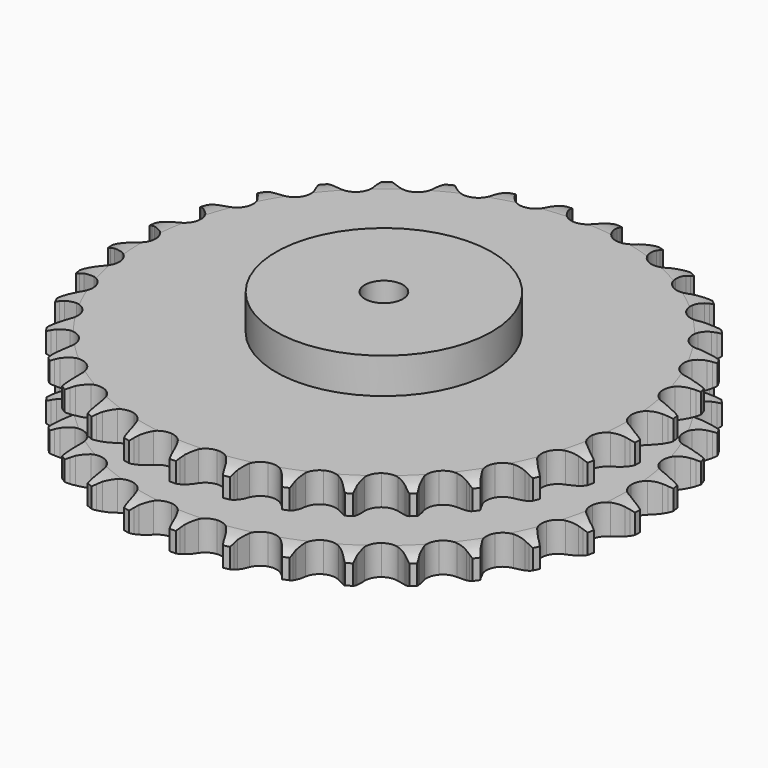
from build123d import *

# Parameters (mm, degrees)
PAD_DEPTH         = 72
SKETCH001_R       = 85
PAD001_DEPTH      = 100
SKETCH002_R       = 15
POCKET_DEPTH      = 0.001
POCKET_DEPTH_BACK = 100.001


with BuildPart() as part:
    # Sprocket → Pad (new body)
    with BuildSketch(Plane.XY):
        with BuildLine():
            ThreePointArc((-20.153782, 211.05995), (-17.745819, 207.875961), (-15.993138, 204.289294))
            Line((-15.993138, 204.289294), (-14.754015, 200.977779))
            ThreePointArc((-14.754015, 200.977779), (-12.794735, 196.696545), (-10.248209, 192.736376))
            ThreePointArc((-10.248209, 192.736376), (-5.730216, 188.960575), (0, 187.606489))
            ThreePointArc((0, 187.606489), (5.730216, 188.960575), (10.248209, 192.736376))
            ThreePointArc((10.248209, 192.736376), (12.794735, 196.696545), (14.754015, 200.977779))
            Line((14.754015, 200.977779), (15.993138, 204.289294))
            ThreePointArc((15.993138, 204.289294), (17.745819, 207.875961), (20.153782, 211.05995))
            ThreePointArc((20.153782, 211.05995), (21.915655, 207.47779), (22.957882, 203.624241))
            Line((22.957882, 203.624241), (23.547904, 200.138064))
            ThreePointArc((23.547904, 200.138064), (24.661548, 195.563402), (26.412589, 191.192865))
            ThreePointArc((26.412589, 191.192865), (30.13436, 186.630262), (35.504762, 184.216195))
            ThreePointArc((35.504762, 184.216195), (41.387688, 184.461361), (46.538609, 187.313893))
            Line((46.538609, 187.313893), (52.522686, 194.553633))
            ThreePointArc((52.522686, 194.553633), (53.404116, 196.086832), (54.366124, 197.570799))
            ThreePointArc((54.366124, 197.570799), (56.765913, 200.760953), (59.732935, 203.431694))
            ThreePointArc((59.732935, 203.431694), (60.785041, 199.580831), (61.079144, 195.599678))
            Line((61.079144, 195.599678), (60.99874, 192.064839))
            ThreePointArc((60.99874, 192.064839), (61.226499, 187.362088), (62.118766, 182.739146))
            ThreePointArc((62.118766, 182.739146), (64.909802, 177.554645), (69.726288, 174.167849))
            ThreePointArc((69.726288, 174.167849), (75.549301, 173.295232), (81.146983, 175.121397))
            Line((81.146983, 175.121397), (88.393049, 181.097812))
            ThreePointArc((88.393049, 181.097812), (89.548711, 182.436492), (90.774177, 183.71158))
            ThreePointArc((90.774177, 183.71158), (93.734339, 186.389921), (97.153184, 188.450886))
            ThreePointArc((97.153184, 188.450886), (97.457497, 184.4705), (96.992847, 180.505633))
            Line((96.992847, 180.505633), (96.244923, 177.049889))
            ThreePointArc((96.244923, 177.049889), (95.578565, 172.38902), (95.57981, 167.680757))
            ThreePointArc((95.57981, 167.680757), (97.339235, 162.06174), (101.427726, 157.824622))
            ThreePointArc((101.427726, 157.824622), (106.980365, 155.865762), (112.822494, 156.599557))
            Line((112.822494, 156.599557), (121.068658, 161.096644))
            ThreePointArc((121.068658, 161.096644), (122.456782, 162.192422), (123.901414, 163.212547))
            ThreePointArc((123.901414, 163.212547), (127.314962, 165.282272), (131.062064, 166.658972))
            ThreePointArc((131.062064, 166.658972), (130.607584, 162.692926), (129.400975, 158.887644))
            Line((129.400975, 158.887644), (128.012564, 155.635896))
            ThreePointArc((128.012564, 155.635896), (126.476172, 151.185363), (125.58635, 146.56195))
            ThreePointArc((125.58635, 146.56195), (126.250574, 140.711502), (129.463301, 135.777202))
            ThreePointArc((129.463301, 135.777202), (134.544879, 132.802898), (140.420305, 132.417802))
            Line((140.420305, 132.417802), (149.36853, 135.273023))
            ThreePointArc((149.36853, 135.273023), (150.938946, 136.086295), (152.550532, 136.814587))
            ThreePointArc((152.550532, 136.814587), (156.294091, 138.200891), (160.23402, 138.843568))
            ThreePointArc((160.23402, 138.843568), (159.037174, 135.035205), (157.132216, 131.527042))
            Line((157.132216, 131.527042), (155.153497, 128.596815))
            ThreePointArc((155.153497, 128.596815), (152.802601, 124.517474), (151.053873, 120.146011))
            ThreePointArc((151.053873, 120.146011), (150.598889, 114.275584), (152.819735, 108.82244))
            ThreePointArc((152.819735, 108.82244), (157.246592, 104.940191), (162.942961, 103.450122))
            Line((162.942961, 103.450122), (172.269834, 104.560283))
            ThreePointArc((172.269834, 104.560283), (173.965783, 105.061655), (175.686076, 105.471791))
            ThreePointArc((175.686076, 105.471791), (179.624344, 106.12457), (183.6147, 106.009997))
            ThreePointArc((183.6147, 106.009997), (181.718745, 102.49696), (179.184288, 99.41271))
            Line((179.184288, 99.41271), (176.686779, 96.909911))
            ThreePointArc((176.686779, 96.909911), (173.606346, 93.349198), (171.061915, 89.387683))
            ThreePointArc((171.061915, 89.387683), (169.504167, 83.709448), (170.652865, 77.934552))
            ThreePointArc((170.652865, 77.934552), (174.265003, 73.284671), (179.576434, 70.743486))
            Line((179.576434, 70.743486), (188.944857, 70.068462))
            ThreePointArc((188.944857, 70.068462), (190.705044, 70.239813), (192.471867, 70.31697))
            ThreePointArc((192.471867, 70.31697), (196.462505, 70.21263), (200.359067, 69.344947))
            ThreePointArc((200.359067, 69.344947), (197.832528, 66.254207), (194.760174, 63.705343))
            Line((194.760174, 63.705343), (191.83414, 61.72043))
            ThreePointArc((191.83414, 61.72043), (188.135505, 58.80704), (184.887333, 55.398651))
            ThreePointArc((184.887333, 55.398651), (182.283123, 50.117835), (182.318156, 44.229906))
            ThreePointArc((182.318156, 44.229906), (184.985022, 38.980453), (189.719547, 35.479995))
            Line((189.719547, 35.479995), (198.790921, 33.044185))
            ThreePointArc((198.790921, 33.044185), (200.551727, 32.879322), (202.301224, 32.62071))
            ThreePointArc((202.301224, 32.62071), (206.199999, 31.763023), (209.861935, 30.173591))
            ThreePointArc((209.861935, 30.173591), (206.796128, 27.616855), (203.296919, 25.695499))
            Line((203.296919, 25.695499), (200.048115, 24.300212))
            ThreePointArc((200.048115, 24.300212), (195.864957, 22.139441), (192.030442, 19.407367))
            ThreePointArc((192.030442, 19.407367), (188.473892, 14.714832), (187.393995, 8.926676))
            ThreePointArc((187.393995, 8.926676), (189.019201, 3.26738), (193.005701, -1.065835))
            Line((193.005701, -1.065835), (201.452163, -5.174396))
            ThreePointArc((201.452163, -5.174396), (203.149949, -5.669515), (204.818887, -6.254547))
            ThreePointArc((204.818887, -6.254547), (208.484888, -7.834582), (211.779846, -10.088317))
            ThreePointArc((211.779846, -10.088317), (208.285577, -12.018642), (204.485984, -13.243047))
            Line((204.485984, -13.243047), (201.03183, -13.99828))
            ThreePointArc((201.03183, -13.99828), (196.515339, -15.328334), (192.23307, -17.285349))
            ThreePointArc((192.23307, -17.285349), (187.852724, -21.220003), (185.696926, -26.699187))
            ThreePointArc((185.696926, -26.699187), (186.221734, -32.563785), (189.316126, -37.573143))
            Line((189.316126, -37.573143), (196.8324, -43.205961))
            ThreePointArc((196.8324, -43.205961), (198.405802, -44.01344), (199.933862, -44.903749))
            ThreePointArc((199.933862, -44.903749), (203.23459, -47.149026), (206.043482, -49.985608))
            ThreePointArc((206.043482, -49.985608), (202.247042, -51.219754), (198.284393, -51.702955))
            Line((198.284393, -51.702955), (194.749731, -51.790836))
            ThreePointArc((194.749731, -51.790836), (190.063144, -52.242103), (185.487894, -53.353328))
            ThreePointArc((185.487894, -53.353328), (180.442068, -56.387891), (177.288286, -61.360072))
            ThreePointArc((177.288286, -61.360072), (176.693728, -67.21801), (178.784173, -72.72246))
            Line((178.784173, -72.72246), (185.0986, -79.675949))
            ThreePointArc((185.0986, -79.675949), (186.490753, -80.766604), (187.822707, -81.930012))
            ThreePointArc((187.822707, -81.930012), (190.638864, -84.759381), (192.860169, -88.076288))
            ThreePointArc((192.860169, -88.076288), (188.898772, -88.56965), (184.916287, -88.294183))
            Line((184.916287, -88.294183), (181.42887, -87.711538))
            ThreePointArc((181.42887, -87.711538), (176.741573, -87.267707), (172.038702, -87.492979))
            ThreePointArc((172.038702, -87.492979), (166.509766, -89.517774), (162.471986, -93.803245))
            ThreePointArc((162.471986, -93.803245), (160.77955, -99.442801), (161.790494, -105.243397))
            Line((161.790494, -105.243397), (166.674854, -113.266241))
            ThreePointArc((166.674854, -113.266241), (167.835441, -114.600654), (168.923149, -115.995111))
            ThreePointArc((168.923149, -115.995111), (171.152953, -119.30631), (172.706388, -122.983662))
            ThreePointArc((172.706388, -122.983662), (168.723209, -122.718409), (164.864825, -121.69423))
            Line((164.864825, -121.69423), (161.550696, -120.462115))
            ThreePointArc((161.550696, -120.462115), (157.0321, -119.139229), (152.371584, -118.470405))
            ThreePointArc((152.371584, -118.470405), (146.559368, -119.412252), (141.783524, -122.856123))
            ThreePointArc((141.783524, -122.856123), (139.05438, -128.073469), (138.949285, -133.960564))
            Line((138.949285, -133.960564), (142.227046, -142.762796))
            ThreePointArc((142.227046, -142.762796), (143.11412, -144.292737), (143.918269, -145.867844))
            ThreePointArc((143.918269, -145.867844), (145.481129, -149.541199), (146.310547, -153.446086))
            ThreePointArc((146.310547, -153.446086), (142.449549, -152.431805), (138.854718, -150.695929))
            Line((138.854718, -150.695929), (135.833659, -148.858878))
            ThreePointArc((135.833659, -148.858878), (131.647078, -146.704748), (127.197359, -145.166003))
            ThreePointArc((127.197359, -145.166003), (121.311932, -144.99086), (115.970637, -147.468661))
            ThreePointArc((115.970637, -147.468661), (112.303423, -152.07523), (111.086087, -157.836047))
            Line((111.086087, -157.836047), (112.638781, -167.099532))
            ThreePointArc((112.638781, -167.099532), (113.220281, -168.769704), (113.711807, -170.468533))
            ThreePointArc((113.711807, -170.468533), (114.551237, -174.37128), (114.626662, -178.362568))
            ThreePointArc((114.626662, -178.362568), (111.027391, -176.635918), (107.82604, -174.251086))
            Line((107.82604, -174.251086), (105.20724, -171.875493))
            ThreePointArc((105.20724, -171.875493), (101.503988, -168.967975), (97.42589, -166.614922))
            ThreePointArc((97.42589, -166.614922), (91.679967, -165.32912), (85.966269, -166.751298))
            ThreePointArc((85.966269, -166.751298), (81.493527, -170.580595), (79.207948, -176.006924))
            Line((79.207948, -176.006924), (78.979457, -185.396855))
            ThreePointArc((78.979457, -185.396855), (79.234367, -187.146895), (79.395504, -188.908046))
            ThreePointArc((79.395504, -188.908046), (79.481166, -192.899128), (78.799871, -196.832563))
            ThreePointArc((78.799871, -196.832563), (75.592414, -194.455949), (72.900248, -191.508354))
            Line((72.900248, -191.508354), (70.778357, -188.68008))
            ThreePointArc((70.778357, -188.68008), (67.692279, -185.12426), (64.133196, -182.041945))
            ThreePointArc((64.133196, -182.041945), (58.734448, -179.691955), (52.854856, -180.007108))
            ThreePointArc((52.854856, -180.007108), (47.738243, -182.920732), (44.467028, -187.816453))
            Line((44.467028, -187.816453), (42.46561, -196.993453))
            ThreePointArc((42.46561, -196.993453), (42.384716, -198.760109), (42.209642, -200.519929))
            ThreePointArc((42.209642, -200.519929), (41.538437, -204.455099), (40.125048, -208.188516))
            ThreePointArc((40.125048, -208.188516), (37.425331, -205.247835), (35.339652, -201.844011))
            Line((35.339652, -201.844011), (33.79136, -198.665278))
            ThreePointArc((33.79136, -198.665278), (31.433995, -194.589671), (28.522561, -190.889497))
            ThreePointArc((28.522561, -190.889497), (23.666114, -187.560255), (17.833131, -186.756992))
            ThreePointArc((17.833131, -186.756992), (12.257575, -188.649639), (8.118953, -192.837805))
            Line((8.118953, -192.837805), (4.416945, -201.470194))
            ThreePointArc((4.416945, -201.470194), (4.003171, -203.189615), (3.498212, -204.8845))
            ThreePointArc((3.498212, -204.8845), (2.094402, -208.62153), (0, -212.019993))
            ThreePointArc((0, -212.019993), (-2.094402, -208.62153), (-3.498212, -204.8845))
            Line((-3.498212, -204.8845), (-4.416945, -201.470194))
            ThreePointArc((-4.416945, -201.470194), (-5.960396, -197.022105), (-8.118953, -192.837805))
            ThreePointArc((-8.118953, -192.837805), (-12.257575, -188.649639), (-17.833131, -186.756992))
            ThreePointArc((-17.833131, -186.756992), (-23.666114, -187.560255), (-28.522561, -190.889497))
            Line((-28.522561, -190.889497), (-33.79136, -198.665278))
            ThreePointArc((-33.79136, -198.665278), (-34.523059, -200.275319), (-35.339652, -201.844011))
            ThreePointArc((-35.339652, -201.844011), (-37.425331, -205.247835), (-40.125048, -208.188516))
            ThreePointArc((-40.125048, -208.188516), (-41.538437, -204.455099), (-42.209642, -200.519929))
            Line((-42.209642, -200.519929), (-42.46561, -196.993453))
            ThreePointArc((-42.46561, -196.993453), (-43.139362, -192.333647), (-44.467028, -187.816453))
            ThreePointArc((-44.467028, -187.816453), (-47.738243, -182.920732), (-52.854856, -180.007108))
            ThreePointArc((-52.854856, -180.007108), (-58.734448, -179.691955), (-64.133196, -182.041945))
            Line((-64.133196, -182.041945), (-70.778357, -188.68008))
            ThreePointArc((-70.778357, -188.68008), (-71.801536, -190.122552), (-72.900248, -191.508354))
            ThreePointArc((-72.900248, -191.508354), (-75.592414, -194.455949), (-78.799871, -196.832563))
            ThreePointArc((-78.799871, -196.832563), (-79.481166, -192.899128), (-79.395504, -188.908046))
            Line((-79.395504, -188.908046), (-78.979457, -185.396855))
            ThreePointArc((-78.979457, -185.396855), (-78.75916, -180.693749), (-79.207948, -176.006924))
            ThreePointArc((-79.207948, -176.006924), (-81.493527, -170.580595), (-85.966269, -166.751298))
            ThreePointArc((-85.966269, -166.751298), (-91.679967, -165.32912), (-97.42589, -166.614922))
            Line((-97.42589, -166.614922), (-105.20724, -171.875493))
            ThreePointArc((-105.20724, -171.875493), (-106.484918, -173.098259), (-107.82604, -174.251086))
            ThreePointArc((-107.82604, -174.251086), (-111.027391, -176.635918), (-114.626662, -178.362568))
            ThreePointArc((-114.626662, -178.362568), (-114.551237, -174.37128), (-113.711807, -170.468533))
            Line((-113.711807, -170.468533), (-112.638781, -167.099532))
            ThreePointArc((-112.638781, -167.099532), (-111.532396, -162.523109), (-111.086087, -157.836047))
            ThreePointArc((-111.086087, -157.836047), (-112.303423, -152.07523), (-115.970637, -147.468661))
            ThreePointArc((-115.970637, -147.468661), (-121.311932, -144.99086), (-127.197359, -145.166003))
            Line((-127.197359, -145.166003), (-135.833659, -148.858878))
            ThreePointArc((-135.833659, -148.858878), (-137.319658, -149.817745), (-138.854718, -150.695929))
            ThreePointArc((-138.854718, -150.695929), (-142.449549, -152.431805), (-146.310547, -153.446086))
            ThreePointArc((-146.310547, -153.446086), (-145.481129, -149.541199), (-143.918269, -145.867844))
            Line((-143.918269, -145.867844), (-142.227046, -142.762796))
            ThreePointArc((-142.227046, -142.762796), (-140.274561, -138.47846), (-138.949285, -133.960564))
            ThreePointArc((-138.949285, -133.960564), (-139.05438, -128.073469), (-141.783524, -122.856123))
            ThreePointArc((-141.783524, -122.856123), (-146.559368, -119.412252), (-152.371584, -118.470405))
            Line((-152.371584, -118.470405), (-161.550696, -120.462115))
            ThreePointArc((-161.550696, -120.462115), (-163.191307, -121.122427), (-164.864825, -121.69423))
            ThreePointArc((-164.864825, -121.69423), (-168.723209, -122.718409), (-172.706388, -122.983662))
            ThreePointArc((-172.706388, -122.983662), (-171.152953, -119.30631), (-168.923149, -115.995111))
            Line((-168.923149, -115.995111), (-166.674854, -113.266241))
            ThreePointArc((-166.674854, -113.266241), (-163.946838, -109.428838), (-161.790494, -105.243397))
            ThreePointArc((-161.790494, -105.243397), (-160.77955, -99.442801), (-162.471986, -93.803245))
            ThreePointArc((-162.471986, -93.803245), (-166.509766, -89.517774), (-172.038702, -87.492979))
            Line((-172.038702, -87.492979), (-181.42887, -87.711538))
            ThreePointArc((-181.42887, -87.711538), (-183.164798, -88.049429), (-184.916287, -88.294183))
            ThreePointArc((-184.916287, -88.294183), (-188.898772, -88.56965), (-192.860169, -88.076288))
            ThreePointArc((-192.860169, -88.076288), (-190.638864, -84.759381), (-187.822707, -81.930012))
            Line((-187.822707, -81.930012), (-185.0986, -79.675949))
            ThreePointArc((-185.0986, -79.675949), (-181.693649, -76.424174), (-178.784173, -72.72246))
            ThreePointArc((-178.784173, -72.72246), (-176.693728, -67.21801), (-177.288286, -61.360072))
            ThreePointArc((-177.288286, -61.360072), (-180.442068, -56.387891), (-185.487894, -53.353328))
            Line((-185.487894, -53.353328), (-194.749731, -51.790836))
            ThreePointArc((-194.749731, -51.790836), (-196.518235, -51.794095), (-198.284393, -51.702955))
            ThreePointArc((-198.284393, -51.702955), (-202.247042, -51.219754), (-206.043482, -49.985608))
            ThreePointArc((-206.043482, -49.985608), (-203.23459, -47.149026), (-199.933862, -44.903749))
            Line((-199.933862, -44.903749), (-196.8324, -43.205961))
            ThreePointArc((-196.8324, -43.205961), (-192.873578, -40.65734), (-189.316126, -37.573143))
            ThreePointArc((-189.316126, -37.573143), (-186.221734, -32.563785), (-185.696926, -26.699187))
            ThreePointArc((-185.696926, -26.699187), (-187.852724, -21.220003), (-192.23307, -17.285349))
            Line((-192.23307, -17.285349), (-201.03183, -13.99828))
            ThreePointArc((-201.03183, -13.99828), (-202.768992, -13.666788), (-204.485984, -13.243047))
            ThreePointArc((-204.485984, -13.243047), (-208.285577, -12.018642), (-211.779846, -10.088317))
            ThreePointArc((-211.779846, -10.088317), (-208.484888, -7.834582), (-204.818887, -6.254547))
            Line((-204.818887, -6.254547), (-201.452163, -5.174396))
            ThreePointArc((-201.452163, -5.174396), (-197.082553, -3.421044), (-193.005701, -1.065835))
            ThreePointArc((-193.005701, -1.065835), (-189.019201, 3.26738), (-187.393995, 8.926676))
            ThreePointArc((-187.393995, 8.926676), (-188.473892, 14.714832), (-192.030442, 19.407367))
            Line((-192.030442, 19.407367), (-200.048115, 24.300212))
            ThreePointArc((-200.048115, 24.300212), (-201.691149, 24.954473), (-203.296919, 25.695499))
            ThreePointArc((-203.296919, 25.695499), (-206.796128, 27.616855), (-209.861935, 30.173591))
            ThreePointArc((-209.861935, 30.173591), (-206.199999, 31.763023), (-202.301224, 32.62071))
            Line((-202.301224, 32.62071), (-198.790921, 33.044185))
            ThreePointArc((-198.790921, 33.044185), (-194.168451, 33.938897), (-189.719547, 35.479995))
            ThreePointArc((-189.719547, 35.479995), (-184.985022, 38.980453), (-182.318156, 44.229906))
            ThreePointArc((-182.318156, 44.229906), (-182.283123, 50.117835), (-184.887333, 55.398651))
            Line((-184.887333, 55.398651), (-191.83414, 61.72043))
            ThreePointArc((-191.83414, 61.72043), (-193.323662, 62.673814), (-194.760174, 63.705343))
            ThreePointArc((-194.760174, 63.705343), (-197.832528, 66.254207), (-200.359067, 69.344947))
            ThreePointArc((-200.359067, 69.344947), (-196.462505, 70.21263), (-192.471867, 70.31697))
            Line((-192.471867, 70.31697), (-188.944857, 70.068462))
            ThreePointArc((-188.944857, 70.068462), (-184.236596, 70.072198), (-179.576434, 70.743486))
            ThreePointArc((-179.576434, 70.743486), (-174.265003, 73.284671), (-170.652865, 77.934552))
            ThreePointArc((-170.652865, 77.934552), (-169.504167, 83.709448), (-171.061915, 89.387683))
            Line((-171.061915, 89.387683), (-176.686779, 96.909911))
            ThreePointArc((-176.686779, 96.909911), (-177.968954, 98.12796), (-179.184288, 99.41271))
            ThreePointArc((-179.184288, 99.41271), (-181.718745, 102.49696), (-183.6147, 106.009997))
            ThreePointArc((-183.6147, 106.009997), (-179.624344, 106.12457), (-175.686076, 105.471791))
            Line((-175.686076, 105.471791), (-172.269834, 104.560283))
            ThreePointArc((-172.269834, 104.560283), (-167.64595, 103.672907), (-162.942961, 103.450122))
            ThreePointArc((-162.942961, 103.450122), (-157.246592, 104.940191), (-152.819735, 108.82244))
            ThreePointArc((-152.819735, 108.82244), (-150.598889, 114.275584), (-151.053873, 120.146011))
            Line((-151.053873, 120.146011), (-155.153497, 128.596815))
            ThreePointArc((-155.153497, 128.596815), (-156.181985, 130.035506), (-157.132216, 131.527042))
            ThreePointArc((-157.132216, 131.527042), (-159.037174, 135.035205), (-160.23402, 138.843568))
            ThreePointArc((-160.23402, 138.843568), (-156.294091, 138.200891), (-152.550532, 136.814587))
            Line((-152.550532, 136.814587), (-149.36853, 135.273023))
            ThreePointArc((-149.36853, 135.273023), (-144.996143, 133.526607), (-140.420305, 132.417802))
            ThreePointArc((-140.420305, 132.417802), (-134.544879, 132.802898), (-129.463301, 135.777202))
            ThreePointArc((-129.463301, 135.777202), (-126.250574, 140.711502), (-125.58635, 146.56195))
            Line((-125.58635, 146.56195), (-128.012564, 155.635896))
            ThreePointArc((-128.012564, 155.635896), (-128.750191, 157.24323), (-129.400975, 158.887644))
            ThreePointArc((-129.400975, 158.887644), (-130.607584, 162.692926), (-131.062064, 166.658972))
            ThreePointArc((-131.062064, 166.658972), (-127.314962, 165.282272), (-123.901414, 163.212547))
            Line((-123.901414, 163.212547), (-121.068658, 161.096644))
            ThreePointArc((-121.068658, 161.096644), (-117.105797, 158.554308), (-112.822494, 156.599557))
            ThreePointArc((-112.822494, 156.599557), (-106.980365, 155.865762), (-101.427726, 157.824622))
            ThreePointArc((-101.427726, 157.824622), (-97.339235, 162.06174), (-95.57981, 167.680757))
            Line((-95.57981, 167.680757), (-96.244923, 177.049889))
            ThreePointArc((-96.244923, 177.049889), (-96.665031, 178.767774), (-96.992847, 180.505633))
            ThreePointArc((-96.992847, 180.505633), (-97.457497, 184.4705), (-97.153184, 188.450886))
            ThreePointArc((-97.153184, 188.450886), (-93.734339, 186.389921), (-90.774177, 183.71158))
            Line((-90.774177, 183.71158), (-88.393049, 181.097812))
            ThreePointArc((-88.393049, 181.097812), (-84.982943, 177.851443), (-81.146983, 175.121397))
            ThreePointArc((-81.146983, 175.121397), (-75.549301, 173.295232), (-69.726288, 174.167849))
            ThreePointArc((-69.726288, 174.167849), (-64.909802, 177.554645), (-62.118766, 182.739146))
            Line((-62.118766, 182.739146), (-60.99874, 192.064839))
            ThreePointArc((-60.99874, 192.064839), (-61.086144, 193.831185), (-61.079144, 195.599678))
            ThreePointArc((-61.079144, 195.599678), (-60.785041, 199.580831), (-59.732935, 203.431694))
            ThreePointArc((-59.732935, 203.431694), (-56.765913, 200.760953), (-54.366124, 197.570799))
            Line((-54.366124, 197.570799), (-52.522686, 194.553633))
            ThreePointArc((-52.522686, 194.553633), (-49.788584, 190.720563), (-46.538609, 187.313893))
            ThreePointArc((-46.538609, 187.313893), (-41.387688, 184.461361), (-35.504762, 184.216195))
            ThreePointArc((-35.504762, 184.216195), (-30.13436, 186.630262), (-26.412589, 191.192865))
            Line((-26.412589, 191.192865), (-23.547904, 200.138064))
            ThreePointArc((-23.547904, 200.138064), (-23.299445, 201.889031), (-22.957882, 203.624241))
            ThreePointArc((-22.957882, 203.624241), (-21.915655, 207.47779), (-20.153782, 211.05995))
        make_face()
    extrude(amount=PAD_DEPTH)

    # Sketch → Groove (revolve, cut)
    with BuildSketch(Plane.XZ):
        with BuildLine():
            ThreePointArc((190.929437, 0), (199.647235, 1.013516), (207.9, 4))
            Line((207.9, 4), (207.9, 19.6))
            ThreePointArc((207.9, 19.6), (199.647235, 22.586484), (190.929437, 23.6))
            Line((85, 23.6), (190.929437, 23.6))
            Line((85, 48.4), (85, 23.6))
            Line((190.929437, 48.4), (85, 48.4))
            ThreePointArc((190.929437, 48.4), (199.647235, 49.413516), (207.9, 52.4))
            Line((207.9, 52.4), (207.9, 68))
            ThreePointArc((207.9, 68), (199.647235, 70.986484), (190.929437, 72))
            Line((190.929437, 72), (217.9, 72))
            Line((217.9, 72), (217.9, 0))
            Line((190.929437, 0), (217.9, 0))
        make_face()
    revolve(axis=Axis((0, 0, 0), (0, 0, 1)), mode=Mode.SUBTRACT)

    # Sketch001 → Pad001 (join)
    with BuildSketch(Plane.XY):
        Circle(SKETCH001_R)
    extrude(amount=PAD001_DEPTH)

    # Sketch002 → Pocket (cut, two sides)
    with BuildSketch(Plane.XY) as pocket_sk:
        Circle(SKETCH002_R)
    extrude(amount=-POCKET_DEPTH, mode=Mode.SUBTRACT)
    extrude(pocket_sk.sketch, amount=POCKET_DEPTH_BACK, mode=Mode.SUBTRACT)


solid = part.part
